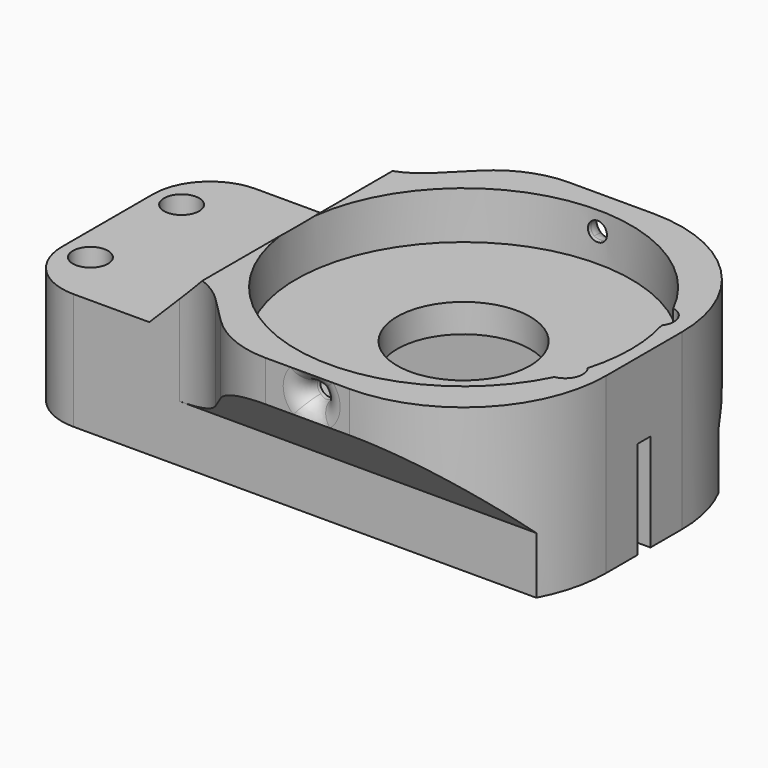
from build123d import *

# Parameters (mm, degrees)
SKETCH035_R          = 7
SKETCH035_R_2        = 1.85
PAD031_DEPTH         = 8
PAD031_DEPTH_BACK    = 10.3
POCKET036_DEPTH      = 10.1
SKETCH070_W          = 1.7
SKETCH070_H          = 20
POCKET037_DEPTH      = 56.501
SKETCH043_R          = 17.65
POCKET038_DEPTH      = 5
POCKET039_DEPTH      = 20.001
POCKET039_DEPTH_BACK = 20.001
POCKET040_DEPTH      = 167.7091
POCKET040_DEPTH_BACK = 175.2091
SKETCH073_R          = 1
POCKET041_DEPTH      = 20.001
POCKET041_DEPTH_BACK = 20.001
FILLET006_R          = 2
SKETCH074_R          = 2.1
POCKET042_DEPTH      = 3


with BuildPart() as part:
    # Sketch035 → Pad031 (new body, two sides)
    with BuildSketch(Plane.XY) as pad031_sk:
        with BuildLine():
            Line((-24.5, 6), (-24.5, -6))
            ThreePointArc((-24.5, -6), (-22.742641, -10.242641), (-18.5, -12))
            Line((-7.313708, -12), (-18.5, -12))
            ThreePointArc((-1.656854, -14.343146), (-4.252241, -12.608964), (-7.313708, -12))
            Line((-1.656854, -14.343146), (1.071068, -17.071068))
            ThreePointArc((1.071068, -17.071068), (4.315301, -19.238795), (8.142136, -20))
            Line((8.142136, -20), (17, -20))
            ThreePointArc((17, -20), (27.606602, -15.606602), (32, -5))
            Line((32, -5), (32, 5))
            ThreePointArc((32, 5), (27.606602, 15.606602), (17, 20))
            Line((8.142136, 20), (17, 20))
            ThreePointArc((8.142136, 20), (4.315301, 19.238795), (1.071068, 17.071068))
            Line((1.071068, 17.071068), (-1.656854, 14.343146))
            ThreePointArc((-7.313708, 12), (-4.252241, 12.608964), (-1.656854, 14.343146))
            Line((-7.313708, 12), (-18.5, 12))
            ThreePointArc((-18.5, 12), (-22.742641, 10.242641), (-24.5, 6))
        make_face()
        with Locations((13, 0)):
            Circle(SKETCH035_R, mode=Mode.SUBTRACT)
        with Locations((-21.5, 6)):
            Circle(SKETCH035_R_2, mode=Mode.SUBTRACT)
        with Locations((-21.5, -6)):
            Circle(SKETCH035_R_2, mode=Mode.SUBTRACT)
        with Locations((28.5, 6)):
            Circle(SKETCH035_R_2, mode=Mode.SUBTRACT)
        with Locations((28.5, -6)):
            Circle(SKETCH035_R_2, mode=Mode.SUBTRACT)
    extrude(amount=PAD031_DEPTH)
    extrude(pad031_sk.sketch, amount=-PAD031_DEPTH_BACK)

    # Sketch069 → Pocket036 (cut, symmetric)
    with BuildSketch(Plane.XZ):
        with BuildLine():
            Line((-16.5, -3), (-16.5, -20))
            Line((-16.5, -20), (23.5, -20))
            Line((23.5, -20), (23.5, -3))
            ThreePointArc((23.5, -3), (22.62132, -0.87868), (20.5, 0))
            Line((20.5, 0), (-13.5, 0))
            ThreePointArc((-13.5, 0), (-15.62132, -0.87868), (-16.5, -3))
        make_face()
    extrude(amount=POCKET036_DEPTH, both=True, mode=Mode.SUBTRACT)

    # Sketch070 (on Face7 of Pocket036) → Pocket037 (cut, through all)
    with BuildSketch(Plane(origin=(-24.5, 0, 0), x_dir=(0, -1, 0), z_dir=(-1, 0, 0))):
        with Locations((0, -10)):
            Rectangle(SKETCH070_W, SKETCH070_H)
    extrude(amount=-POCKET037_DEPTH, mode=Mode.SUBTRACT)

    # Sketch043 (on Face5 of Pocket037) → Pocket038 (cut)
    with BuildSketch(Plane.XY.offset(8)):
        with Locations((13, 0)):
            Circle(SKETCH043_R)
    extrude(amount=-POCKET038_DEPTH, mode=Mode.SUBTRACT)

    # Sketch071 → Pocket039 (cut, two sides)
    with BuildSketch(Plane.XZ) as pocket039_sk:
        Polygon((-24.5, 8), (-24.5, 2), (-10.5, 2), (-4.5, 8), align=None)
    extrude(amount=-POCKET039_DEPTH, mode=Mode.SUBTRACT)
    extrude(pocket039_sk.sketch, amount=POCKET039_DEPTH_BACK, mode=Mode.SUBTRACT)

    # Sketch072 → Pocket040 (cut, two sides)
    with BuildSketch(Plane.YZ) as pocket040_sk:
        Polygon((-20, -10.3), (-12, -10.3), (-12, -4.3), (-20, 3.7), align=None)
    pocket040 = extrude(amount=-POCKET040_DEPTH, mode=Mode.SUBTRACT) + extrude(pocket040_sk.sketch, amount=POCKET040_DEPTH_BACK, mode=Mode.SUBTRACT)

    # Mirrored005: Pocket040 across Sketch072 V_Axis
    add(pocket040.mirror(Plane(origin=(0, 0, 0), x_dir=(1, 0, 0), z_dir=(0, 1, 0))), mode=Mode.SUBTRACT)

    # Sketch073 → Pocket041 (cut, two sides)
    with BuildSketch(Plane.XZ) as pocket041_sk:
        with Locations((13, 6)):
            Circle(SKETCH073_R)
    extrude(amount=-POCKET041_DEPTH, mode=Mode.SUBTRACT)
    extrude(pocket041_sk.sketch, amount=POCKET041_DEPTH_BACK, mode=Mode.SUBTRACT)

    # Fillet006
    fillet006_edges = [part.edges().sort_by_distance(p)[0] for p in [
        (12, -20, 6),
        (12, 20, 6),
    ]]
    fillet(fillet006_edges, radius=FILLET006_R)

    # Sketch074 → Pocket042 (cut)
    with BuildSketch(Plane.XY.offset(-10.3)):
        with Locations((-21.5, 6)):
            Circle(SKETCH074_R)
        with Locations((-21.5, -6)):
            Circle(SKETCH074_R)
        with Locations((28.5, -6)):
            Circle(SKETCH074_R)
        with Locations((28.5, 6)):
            Circle(SKETCH074_R)
    extrude(amount=POCKET042_DEPTH, mode=Mode.SUBTRACT)


with BuildPart() as part_1:
    # Body018 placement: moved
    add(part.part.moved(Location((-13, 0, -0.5))))


solid = part_1.part
